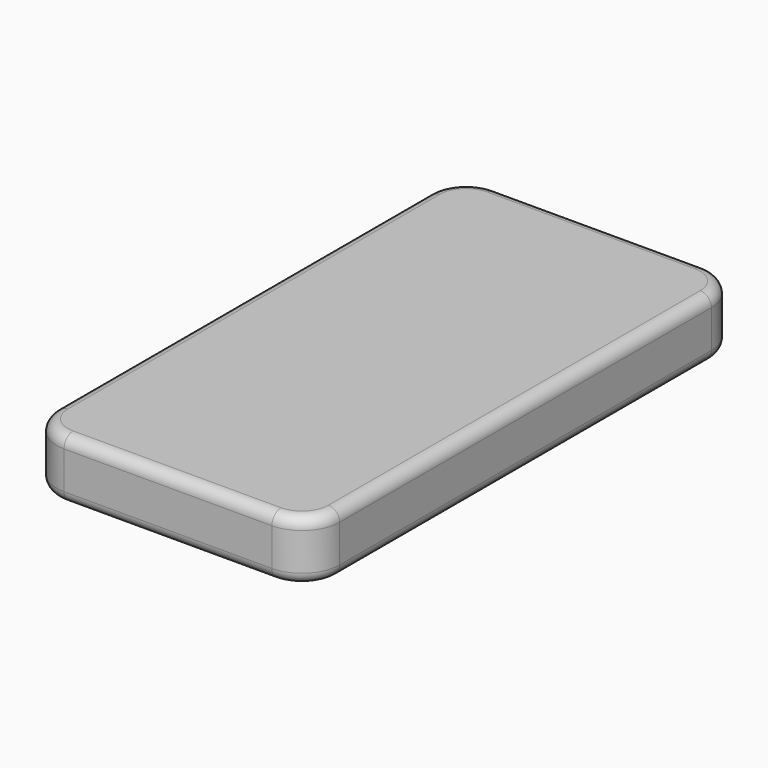
from build123d import *

# Parameters (mm, degrees)
F1_DEPTH = 8
F2_R     = 1.5
F3_R     = 1.5


with BuildPart() as f1:
    # F0 (on Top) → F1 (new body)
    with BuildSketch(Plane.XY):
        with BuildLine():
            Line((4.951009, 34.288198), (-22.689517, 34.288198))
            ThreePointArc((-22.689517, 34.288198), (-26.22505, 32.823732), (-27.689517, 29.288198))
            Line((-27.689517, 29.288198), (-27.689517, -32.524177))
            ThreePointArc((-27.689517, -32.524177), (-26.22505, -36.059711), (-22.689517, -37.524177))
            Line((-22.689517, -37.524177), (4.951009, -37.524177))
            ThreePointArc((4.951009, -37.524177), (8.486543, -36.059711), (9.951009, -32.524177))
            Line((9.951009, -32.524177), (9.951009, 29.288198))
            ThreePointArc((9.951009, 29.288198), (8.486543, 32.823732), (4.951009, 34.288198))
        make_face()
    extrude(amount=F1_DEPTH)

    # F2
    f2_edges = [f1.edges().sort_by_distance(p)[0] for p in [
        (9.951009, -1.617989, 8),
        (8.486543, 32.823732, 8),
        (-8.869254, 34.288198, 8),
        (-26.22505, 32.823732, 8),
        (-27.689517, -1.617989, 8),
        (-26.22505, -36.059711, 8),
        (-8.869254, -37.524177, 8),
        (8.486543, -36.059711, 8),
    ]]
    fillet(f2_edges, radius=F2_R)

    # F3
    f3_edges = [f1.edges().sort_by_distance(p)[0] for p in [
        (9.951009, -1.617989, 0),
        (8.486543, 32.823732, 0),
        (-8.869254, 34.288198, 0),
        (-26.22505, 32.823732, 0),
        (-27.689517, -1.617989, 0),
        (-26.22505, -36.059711, 0),
        (-8.869254, -37.524177, 0),
        (8.486543, -36.059711, 0),
    ]]
    fillet(f3_edges, radius=F3_R)


solid = f1.part
